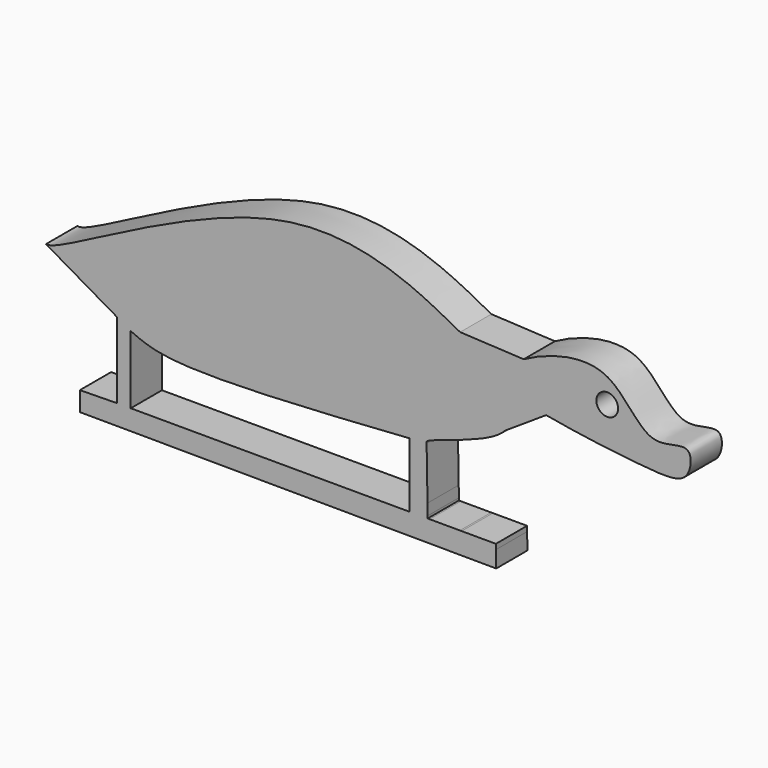
from build123d import *

# Parameters (mm, degrees)
F0_R     = 2.8259087291
F1_DEPTH = 10.16


with BuildPart() as f1:
    # F0 (on Front) → F1 (new body)
    with BuildSketch(Plane.XZ):
        with BuildLine():
            add(Edge.make_bspline(
                [(-43.7399670482, -40.47915712), (-44.9586562009, -39.7817104143), (-46.1773453537, -39.0842637086), (-47.3811415357, -38.3951164495)],
                knots=[0, 0, 0, 0, 0.0223205188, 0.0223205188, 0.0223205188, 0.0223205188], degree=3))
            add(Edge.make_bspline(
                [(-43.7399670482, -40.47915712), (-41.1914811051, -41.6231387063), (-32.5133996123, -45.5186145514), (3.0191182172, -43.2385954669), (28.8461810098, -41.4604244011)],
                knots=[0, 0, 0, 0, 0.2821937748, 0.960923713, 0.960923713, 0.960923713, 0.960923713], degree=3))
            add(Edge.make_bspline(
                [(28.8461810098, -41.4604244011), (30.3331136801, -41.3580503653), (31.8224638749, -41.2551203912), (33.3118140697, -41.1521904171)],
                knots=[0.960923713, 0.960923713, 0.960923713, 0.960923713, 1, 1, 1, 1], degree=3))
            add(Edge.make_bspline(
                [(53.7094205558, -31.622248167), (49.7773652594, -36.0544030632), (33.0587975125, -39.7011387081), (33.2788979141, -40.9632103177), (33.3118140697, -41.1521904171)],
                knots=[0.3730682405, 0.3730682405, 0.3730682405, 0.3730682405, 0.9062669448, 1, 1, 1, 1], degree=3))
            add(Edge.make_bspline(
                [(51.8920645118, -21.0052579641), (54.1758076153, -24.7686521775), (56.4605993174, -28.5211599322), (53.7094205558, -31.622248167)],
                knots=[0, 0, 0, 0, 0.3730682405, 0.3730682405, 0.3730682405, 0.3730682405], degree=3))
            add(Edge.make_bspline(
                [(51.8920645118, -21.0052579641), (51.1834369424, -20.4129051596), (51.4232910982, -19.8493309374), (51.8920645118, -19.1696472466)],
                knots=[0.9513700936, 0.9513700936, 0.9513700936, 0.9513700936, 1, 1, 1, 1], degree=3))
            add(Edge.make_bspline(
                [(42.0511067779, -12.8229769952), (47.2719616146, -15.6296606014), (52.1371553449, -18.3325961205), (51.6656503341, -19.2248583276), (51.8254802272, -19.1858838196), (51.8920645118, -19.1696472466)],
                knots=[0.8317280314, 0.8317280314, 0.8317280314, 0.8317280314, 0.9629023437, 0.9845453134, 1, 1, 1, 1], degree=3))
            add(Edge.make_bspline(
                [(-47.3811415357, -38.3951164495), (-56.8911557158, -32.9508391677), (-67.3138294514, -26.9669165777), (-62.8765127832, -29.0025472718), (-1.6939888345, 10.3139326932), (30.5973101031, -6.6752314455), (41.7305130556, -12.6506287547), (42.0511067779, -12.8229769952)],
                knots=[0.0223205188, 0.0223205188, 0.0223205188, 0.0223205188, 0.1986530689, 0.2365094657, 0.5554009653, 0.8236730935, 0.8317280314, 0.8317280314, 0.8317280314, 0.8317280314], degree=3))
        make_face()
        with BuildLine():
            Line((-43.7399670482, -57.6492734253), (-43.7399670482, -40.47915712))
            add(Edge.make_bspline(
                [(-43.7399670482, -40.47915712), (-44.9586562009, -39.7817104143), (-46.1773453537, -39.0842637086), (-47.3811415357, -38.3951164495)],
                knots=[0, 0, 0, 0, 0.0223205188, 0.0223205188, 0.0223205188, 0.0223205188], degree=3))
            Line((-47.3811415357, -38.3951164495), (-47.3811415357, -58.1678660724))
            Line((-47.3811415357, -58.1678660724), (-43.7399670482, -58.17387298))
            Line((-43.7399670482, -58.17387298), (-43.7399670482, -57.6492734253))
        make_face()
        Polygon((28.8461810098, -58.2936195855), (-43.7399670482, -58.17387298), (-47.3811415357, -58.1678660724), (-56.995738265, -58.3307396969), (-56.995738265, -63.368574736), (51.4339898096, -63.9654241077), (51.3610763604, -59.6612685854), (51.3470768929, -58.3307396969), (42.4320744281, -58.3160324654), (41.9998763789, -58.3153194609), (34.0983423501, -58.3022841655), (33.5917212069, -58.301448384), align=None)
        with BuildLine():
            add(Edge.make_bspline(
                [(28.8461810098, -41.4604244011), (30.3331136801, -41.3580503653), (31.8224638749, -41.2551203912), (33.3118140697, -41.1521904171)],
                knots=[0.960923713, 0.960923713, 0.960923713, 0.960923713, 1, 1, 1, 1], degree=3))
            Line((28.8461810098, -41.4604244011), (28.8461810098, -57.6492734253))
            Line((28.8461810098, -57.6492734253), (28.8461810098, -58.2936195855))
            Line((28.8461810098, -58.2936195855), (33.5917212069, -58.301448384))
            Line((33.5917212069, -58.301448384), (33.5917212069, -57.6753951609))
            Line((33.5917212069, -57.6753951609), (33.5428160355, -54.7884728446))
            Line((33.5428160355, -54.7884728446), (33.3118140697, -41.1521904171))
        make_face()
        with BuildLine():
            add(Edge.make_bspline(
                [(51.8920645118, -19.1696472466), (52.9113139958, -17.6918175936), (55.0127880365, -15.6650759818), (58.5958421215, -13.6591426916)],
                knots=[0, 0, 0, 0, 0.1057355336, 0.1057355336, 0.1057355336, 0.1057355336], degree=3))
            add(Edge.make_bspline(
                [(51.8920645118, -21.0052579641), (51.1834369424, -20.4129051596), (51.4232910982, -19.8493309374), (51.8920645118, -19.1696472466)],
                knots=[0.9513700936, 0.9513700936, 0.9513700936, 0.9513700936, 1, 1, 1, 1], degree=3))
            add(Edge.make_bspline(
                [(64.4420165886, -24.5716751218), (58.2513791195, -23.422091658), (53.2723731866, -22.1590794495), (51.8920645118, -21.0052579641)],
                knots=[0.8566457495, 0.8566457495, 0.8566457495, 0.8566457495, 0.9513700936, 0.9513700936, 0.9513700936, 0.9513700936], degree=3))
            add(Edge.make_bspline(
                [(58.5958421215, -13.6591426916), (64.2031465359, -10.5199551921), (81.6303625102, -4.6927192338), (90.1512286224, -24.829251301), (102.6973019856, -17.7876630707), (102.0195048252, -28.3739373092), (93.6237553802, -28.7643797852), (72.9919691988, -26.1593765801), (64.4420165886, -24.5716751218)],
                knots=[0.1057355336, 0.1057355336, 0.1057355336, 0.1057355336, 0.2712064728, 0.4179659451, 0.5243731254, 0.6081304995, 0.7258209908, 0.8566457495, 0.8566457495, 0.8566457495, 0.8566457495], degree=3))
        make_face()
        with Locations((80.3424492478, -16.9705394655)):
            Circle(F0_R, mode=Mode.SUBTRACT)
        with BuildLine():
            add(Edge.make_bspline(
                [(51.8920645118, -21.0052579641), (54.1758076153, -24.7686521775), (56.4605993174, -28.5211599322), (53.7094205558, -31.622248167)],
                knots=[0, 0, 0, 0, 0.3730682405, 0.3730682405, 0.3730682405, 0.3730682405], degree=3))
            Line((53.7094205558, -31.622248167), (64.4420165886, -24.5716751218))
            add(Edge.make_bspline(
                [(64.4420165886, -24.5716751218), (58.2513791195, -23.422091658), (53.2723731866, -22.1590794495), (51.8920645118, -21.0052579641)],
                knots=[0.8566457495, 0.8566457495, 0.8566457495, 0.8566457495, 0.9513700936, 0.9513700936, 0.9513700936, 0.9513700936], degree=3))
        make_face()
        with BuildLine():
            Line((58.5958421215, -13.6591426916), (42.0511067779, -12.8229769952))
            add(Edge.make_bspline(
                [(42.0511067779, -12.8229769952), (47.2719616146, -15.6296606014), (52.1371553449, -18.3325961205), (51.6656503341, -19.2248583276), (51.8254802272, -19.1858838196), (51.8920645118, -19.1696472466)],
                knots=[0.8317280314, 0.8317280314, 0.8317280314, 0.8317280314, 0.9629023437, 0.9845453134, 1, 1, 1, 1], degree=3))
            add(Edge.make_bspline(
                [(51.8920645118, -19.1696472466), (52.9113139958, -17.6918175936), (55.0127880365, -15.6650759818), (58.5958421215, -13.6591426916)],
                knots=[0, 0, 0, 0, 0.1057355336, 0.1057355336, 0.1057355336, 0.1057355336], degree=3))
        make_face()
    extrude(amount=F1_DEPTH)


solid = f1.part
